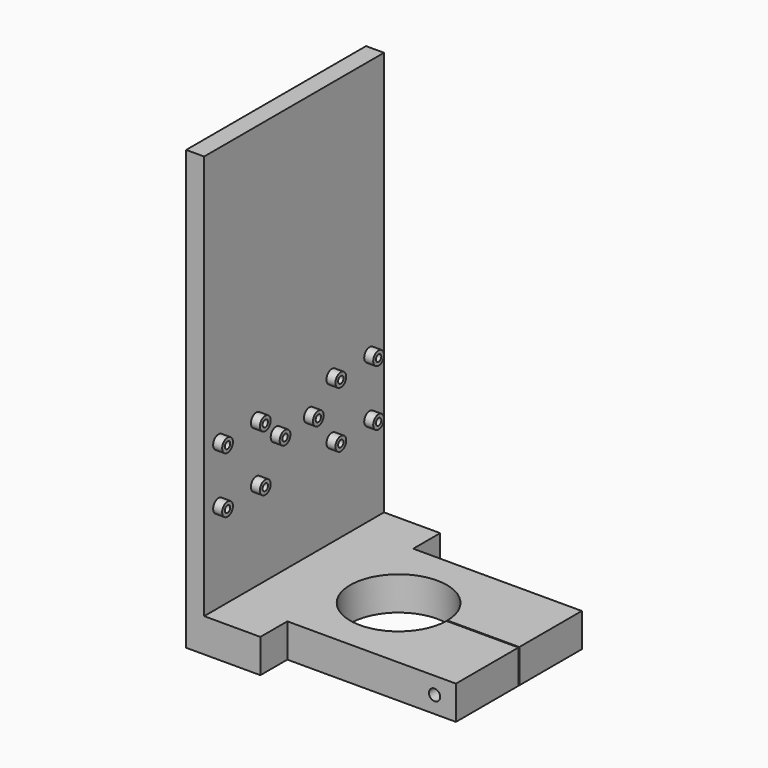
from build123d import *

# Parameters (mm, degrees)
F3_DEPTH = 230
F2_W     = 108
F2_H     = 30
F2_W_2   = 100
F2_H_2   = 180
F4_DEPTH = 310
F6_START = 35
F5_R     = 1.5
F6_DEPTH = 36
F7_START = 58
F5_R_2   = 3
F7_DEPTH = 4
F8_START = -44
F2_R     = 2.5
F8_DEPTH = 98


with BuildPart() as f3:
    # F1 (on Top) → F3 (new body)
    with BuildSketch(Plane.XY):
        with BuildLine():
            Line((83, 150), (50, 150))
            Line((50, 150), (50, 50))
            Line((50, 50), (83, 50))
            Line((83, 50), (83, 65))
            Line((83, 65), (158, 65))
            Line((158, 65), (158, 99.75))
            Line((158, 99.75), (126, 99.75))
            Line((126, 99.75), (125.9985464625, 99.75))
            ThreePointArc((125.9985464625, 99.75), (83, 100), (125.9985464625, 100.25))
            Line((125.9985464625, 100.25), (126, 100.25))
            Line((126, 100.25), (158, 100.25))
            Line((158, 100.25), (158, 135))
            Line((158, 135), (83, 135))
            Line((83, 135), (83, 150))
        make_face()
    extrude(amount=F3_DEPTH)

    # F2 (on Front) → F4 (cut)
    with BuildSketch(Plane.XZ):
        with Locations((104, 15)):
            Rectangle(F2_W, F2_H)
        with Locations((108, 135)):
            Rectangle(F2_W_2, F2_H_2)
        Polygon((50, 295), (50, 225), (58, 225), (158, 225), (158, 295), align=None)
    extrude(amount=-F4_DEPTH, mode=Mode.SUBTRACT)

    # F5 (on Right) → F6 (cut)
    with BuildSketch(Plane.YZ.offset(F6_START)):
        with Locations((142, 85)):
            Circle(F5_R)
        with Locations((142, 110)):
            Circle(F5_R)
        with Locations((121, 110)):
            Circle(F5_R)
        with Locations((108.5, 100)):
            Circle(F5_R)
        with Locations((121, 85)):
            Circle(F5_R)
        with Locations((90, 100)):
            Circle(F5_R)
        with Locations((79, 85)):
            Circle(F5_R)
        with Locations((58, 110)):
            Circle(F5_R)
        with Locations((79, 110)):
            Circle(F5_R)
        with Locations((58, 85)):
            Circle(F5_R)
    extrude(amount=F6_DEPTH, mode=Mode.SUBTRACT)

    # F5 (on Right) → F7 (join)
    with BuildSketch(Plane.YZ.offset(F7_START)):
        with Locations((58, 110)):
            Circle(F5_R_2)
        with Locations((58, 110)):
            Circle(F5_R, mode=Mode.SUBTRACT)
        with Locations((79, 110)):
            Circle(F5_R_2)
        with Locations((79, 110)):
            Circle(F5_R, mode=Mode.SUBTRACT)
        with Locations((90, 100)):
            Circle(F5_R_2)
        with Locations((90, 100)):
            Circle(F5_R, mode=Mode.SUBTRACT)
        with Locations((108.5, 100)):
            Circle(F5_R_2)
        with Locations((108.5, 100)):
            Circle(F5_R, mode=Mode.SUBTRACT)
        with Locations((121, 110)):
            Circle(F5_R_2)
        with Locations((121, 110)):
            Circle(F5_R, mode=Mode.SUBTRACT)
        with Locations((142, 110)):
            Circle(F5_R_2)
        with Locations((142, 110)):
            Circle(F5_R, mode=Mode.SUBTRACT)
        with Locations((121, 85)):
            Circle(F5_R_2)
        with Locations((121, 85)):
            Circle(F5_R, mode=Mode.SUBTRACT)
        with Locations((142, 85)):
            Circle(F5_R_2)
        with Locations((142, 85)):
            Circle(F5_R, mode=Mode.SUBTRACT)
        with Locations((79, 85)):
            Circle(F5_R_2)
        with Locations((79, 85)):
            Circle(F5_R, mode=Mode.SUBTRACT)
        with Locations((58, 85)):
            Circle(F5_R_2)
        with Locations((58, 85)):
            Circle(F5_R, mode=Mode.SUBTRACT)
    extrude(amount=F7_DEPTH)

    # F2 (on Front) → F8 (cut)
    with BuildSketch(Plane.XZ.offset(F8_START)):
        with Locations((148.5, 37.5)):
            Circle(F2_R)
    extrude(amount=-F8_DEPTH, mode=Mode.SUBTRACT)


solid = f3.part
